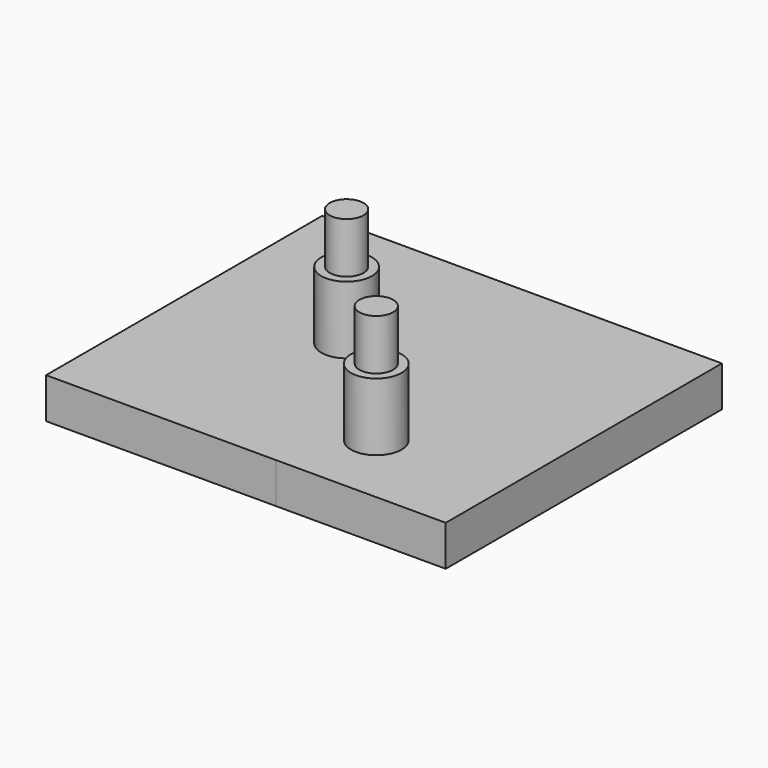
from build123d import *

# Parameters (mm, degrees)
F0_W      = 203.2
F0_H      = 203.2
F1_DEPTH  = 15.24
F2_R      = 9.525
F3_DEPTH  = 25.4
F4_R      = 6.35
F5_DEPTH  = 19.05
F6_R      = 9.525
F7_DEPTH  = 25.4
F8_R      = 6.35
F9_DEPTH  = 19.05
F10_W     = 66.012211
F10_H     = 227.670602
F11_DEPTH = 81.788
F12_W     = 0.028826
F12_H     = 5.976447
F13_DEPTH = 59.182


with BuildPart() as f1:
    # F0 (on Top) → F1 (new body)
    with BuildSketch(Plane.XY):
        Rectangle(F0_W, F0_H)
    extrude(amount=F1_DEPTH)

    # F2 (on face) → F3 (join)
    with BuildSketch(Plane.XY.offset(15.24)):
        Circle(F2_R)
        with Locations((62.23, 0)):
            Circle(F2_R)
        with Locations((-45.293553, 42.673961)):
            Circle(F2_R)
        with Locations((62.23, -62.23)):
            Circle(F2_R)
    extrude(amount=F3_DEPTH)

    # F4 (on face) → F5 (join)
    with BuildSketch(Plane.XY.offset(40.64)):
        with Locations((-45.293553, 42.673961)):
            Circle(F4_R)
        Circle(F4_R)
        with Locations((62.23, -62.23)):
            Circle(F4_R)
        with Locations((62.23, 0)):
            Circle(F4_R)
    extrude(amount=F5_DEPTH)

    # F6 (on face) → F7 (join)
    with BuildSketch(Plane.XY.offset(15.24)):
        with Locations((-42.088444, -45.838148)):
            Circle(F6_R)
    extrude(amount=F7_DEPTH)

    # F8 (on face) → F9 (join)
    with BuildSketch(Plane.XY.offset(40.64)):
        with Locations((-42.088444, -45.838148)):
            Circle(F8_R)
    extrude(amount=F9_DEPTH)

    # F10 (on face) → F11 (cut)
    with BuildSketch(Plane.XY.offset(59.69)):
        with Locations((81.731911, -7.860381)):
            Rectangle(F10_W, F10_H)
    extrude(amount=-F11_DEPTH, mode=Mode.SUBTRACT)

    # F12 (on face) → F13 (cut, symmetric)
    with BuildSketch(Plane.XY.offset(15.24)):
        Polygon((-15.059947, -28.248059), (-113.846987, -28.248059), (-113.846987, -116.091147), (57.950988, -116.091147), (57.950988, -28.248059), (-15.031121, -28.248059), (-15.031121, -34.224506), (-15.059947, -34.224506), align=None)
        with Locations((-15.045534, -31.236282)):
            Rectangle(F12_W, F12_H)
    extrude(amount=F13_DEPTH, both=True, mode=Mode.SUBTRACT)


solid = f1.part
